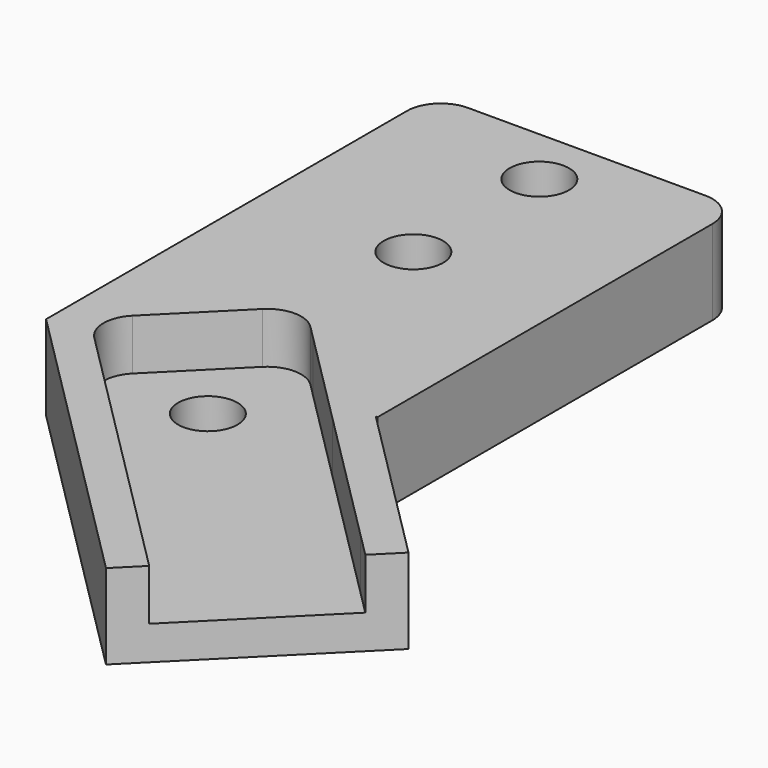
from build123d import *

# Parameters (mm, degrees)
F1_DEPTH = 2
F2_DEPTH = 5
F3_D     = 3.5


with BuildPart() as f1:
    # F0 (on Top) → F1 (new body)
    with BuildSketch(Plane.XY):
        with BuildLine():
            Line((10.0519920066, -31.4581375476), (17.1230598185, -24.3870697357))
            Line((17.1230598185, -24.3870697357), (15.7088462561, -22.9728561734))
            Line((15.7088462561, -22.9728561734), (7.4758086988, -14.739818616))
            Line((7.4758086988, -14.739818616), (1.6548871607, -8.918897078))
            Line((1.6548871607, -8.918897078), (0.9610006781, -8.2250105953))
            ThreePointArc((0.9610006781, -8.2250105953), (-0.4532128843, -7.6392241577), (-1.8674264467, -8.2250105953))
            Line((-1.8674264467, -8.2250105953), (-6.1100671338, -12.4676512825))
            ThreePointArc((-6.1100671338, -12.4676512825), (-6.6958535714, -13.8818648448), (-6.1100671338, -15.2960784072))
            Line((-6.1100671338, -15.2960784072), (-4.0901436171, -17.3160019239))
            Line((-4.0901436171, -17.3160019239), (8.6377784442, -30.0439239852))
            Line((8.6377784442, -30.0439239852), (10.0519920066, -31.4581375476))
        make_face()
    extrude(amount=F1_DEPTH)

    # F0 (on Top) → F2 (join)
    with BuildSketch(Plane.XY):
        with BuildLine():
            Line((8.8900222611, -13.3256050537), (9, -13.3256050537))
            Line((9, -13.3256050537), (9, 11.3256050537))
            ThreePointArc((9, 11.3256050537), (8.4142135624, 12.739818616), (7, 13.3256050537))
            Line((7, 13.3256050537), (-7, 13.3256050537))
            ThreePointArc((-7, 13.3256050537), (-8.4142135624, 12.739818616), (-9, 11.3256050537))
            Line((-9, 11.3256050537), (-9, -13.3256050537))
            Line((-9, -13.3256050537), (-9, -15.2345726658))
            Line((-9, -15.2345726658), (-5.5043571795, -18.7302154863))
            Line((-5.5043571795, -18.7302154863), (8.6377784442, -32.87235111))
            Line((8.6377784442, -32.87235111), (10.0519920066, -31.4581375476))
            Line((10.0519920066, -31.4581375476), (8.6377784442, -30.0439239852))
            Line((8.6377784442, -30.0439239852), (-4.0901436171, -17.3160019239))
            Line((-4.0901436171, -17.3160019239), (-6.1100671338, -15.2960784072))
            ThreePointArc((-6.1100671338, -15.2960784072), (-6.6958535714, -13.8818648448), (-6.1100671338, -12.4676512825))
            Line((-6.1100671338, -12.4676512825), (-1.8674264467, -8.2250105953))
            ThreePointArc((-1.8674264467, -8.2250105953), (-0.4532128843, -7.6392241577), (0.9610006781, -8.2250105953))
            Line((0.9610006781, -8.2250105953), (1.6548871607, -8.918897078))
            Line((1.6548871607, -8.918897078), (7.4758086988, -14.739818616))
            Line((7.4758086988, -14.739818616), (15.7088462561, -22.9728561734))
            Line((15.7088462561, -22.9728561734), (17.1230598185, -24.3870697357))
            Line((17.1230598185, -24.3870697357), (18.5372733808, -22.9728561734))
            Line((18.5372733808, -22.9728561734), (8.8900222611, -13.3256050537))
        make_face()
    extrude(amount=F2_DEPTH)

    # F3 (through all)
    with Locations(Plane(origin=(0, 0, 0), x_dir=(1, 0, 0), z_dir=(0, 0, -1))):
        with Locations((0, -0.5559050478), (-0.9101199103, 13.4369833395), (0, -9.8313745111)):
            Hole(F3_D / 2)


solid = f1.part
